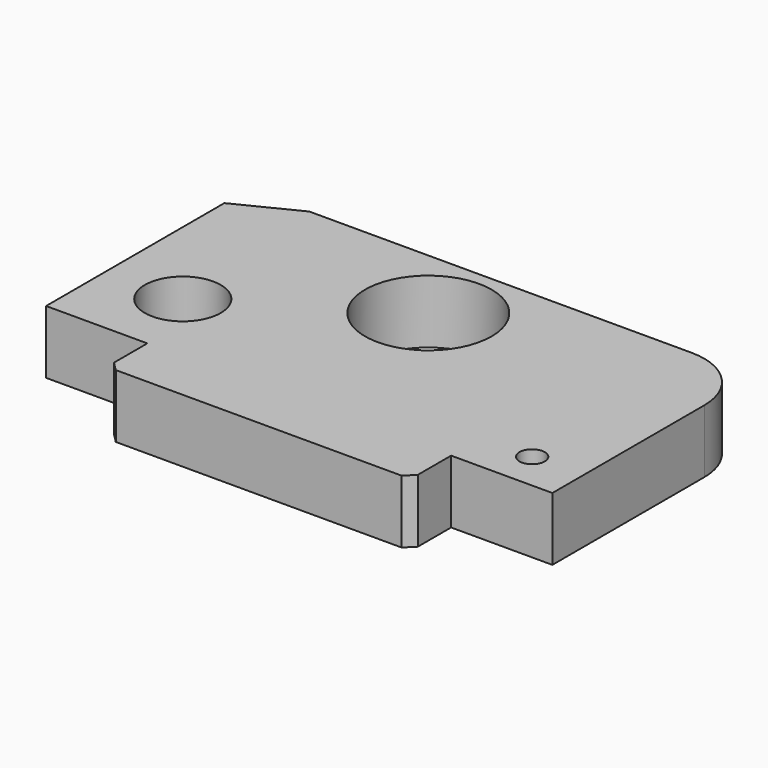
from build123d import *

# Parameters (mm, degrees)
F0_R     = 15
F0_R_2   = 5
F0_R_3   = 25
F1_DEPTH = 25


with BuildPart() as f1:
    # F0 (on Top) → F1 (new body)
    with BuildSketch(Plane.XY):
        with BuildLine():
            Line((-29.817205, 54.56318), (-53.817205, 42.56318))
            Line((-53.817205, 42.56318), (-53.817205, -45.43682))
            Line((-53.817205, -45.43682), (-13.817205, -45.43682))
            Line((-13.817205, -45.43682), (-13.817205, -61.901286))
            Line((-13.817205, -61.901286), (-10.281671, -65.43682))
            Line((-10.281671, -65.43682), (102.647265, -65.43682))
            Line((102.647265, -65.43682), (106.182795, -61.90129))
            Line((106.182795, -61.90129), (106.182795, -45.43682))
            Line((106.182795, -45.43682), (146.182795, -45.43682))
            Line((146.182795, -45.43682), (146.182795, 29.56318))
            ThreePointArc((146.182795, 29.56318), (138.860464, 47.240849), (121.182795, 54.56318))
            Line((121.182795, 54.56318), (41.182795, 54.56318))
            Line((41.182795, 54.56318), (-29.817205, 54.56318))
        make_face()
        with Locations((-23.817205, -15.43682)):
            Circle(F0_R, mode=Mode.SUBTRACT)
        with Locations((126.182795, -30.43682)):
            Circle(F0_R_2, mode=Mode.SUBTRACT)
        with Locations((41.182795, 24.56318)):
            Circle(F0_R_3, mode=Mode.SUBTRACT)
    extrude(amount=F1_DEPTH)


solid = f1.part
